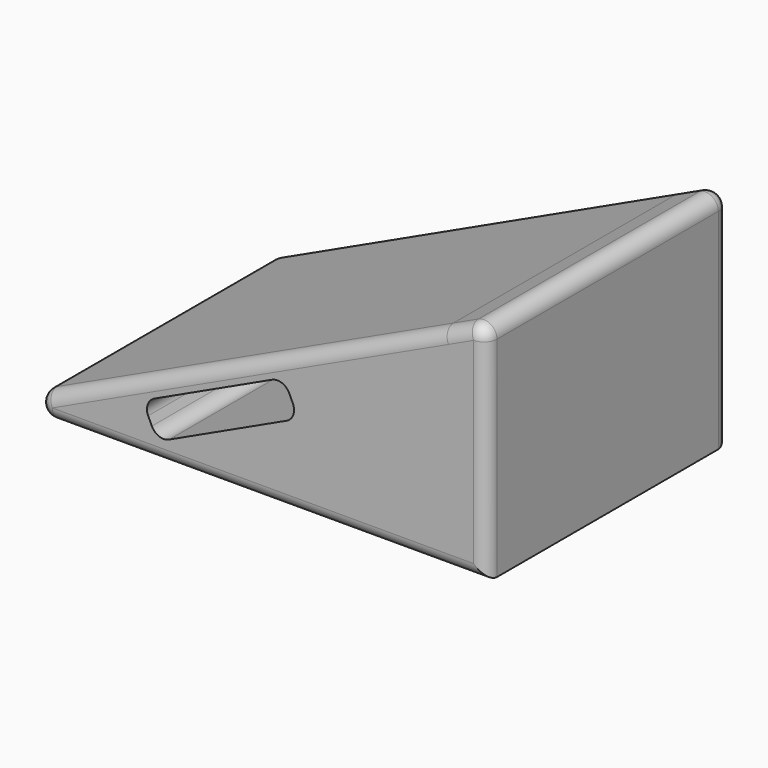
from build123d import *

# Parameters (mm, degrees)
F1_DEPTH = 35
F3_DEPTH = 35.001
F4_R     = 1.5
F5_R     = 1.5


with BuildPart() as f1:
    # F0 (on Front) → F1 (new body)
    with BuildSketch(Plane.XZ):
        Polygon((26.035348, 24.228908), (-25.923712, 0), (31.076288, 0), (31.076288, 26.579537), align=None)
    extrude(amount=F1_DEPTH)

    # F2 (on face) → F3 (cut, through all)
    with BuildSketch(Plane.XZ.offset(35)):
        with BuildLine():
            Line((6.252536, 12.631768), (-7.342081, 6.292494))
            ThreePointArc((-7.342081, 6.292494), (-8.117693, 5.446063), (-8.067615, 4.299105))
            Line((-8.067615, 4.299105), (-7.644997, 3.392798))
            ThreePointArc((-7.644997, 3.392798), (-6.798566, 2.617186), (-5.651608, 2.667263))
            Line((-5.651608, 2.667263), (7.943009, 9.006537))
            ThreePointArc((7.943009, 9.006537), (8.71862, 9.852969), (8.668543, 10.999926))
            Line((8.668543, 10.999926), (8.245925, 11.906234))
            ThreePointArc((8.245925, 11.906234), (7.399493, 12.681846), (6.252536, 12.631768))
        make_face()
    extrude(amount=-F3_DEPTH, mode=Mode.SUBTRACT)

    # F4
    f4_edges = [f1.edges().sort_by_distance(p)[0] for p in [
        (-25.923712, -17.5, 0),
        (31.076288, -17.5, 26.579537),
    ]]
    fillet(f4_edges, radius=F4_R)

    # F5
    f5_edges = [f1.edges().sort_by_distance(p)[0] for p in [
        (31.076288, -35, 12.112504),
        (31.076288, 0, 12.112504),
    ]]
    fillet(f5_edges, radius=F5_R)


solid = f1.part
